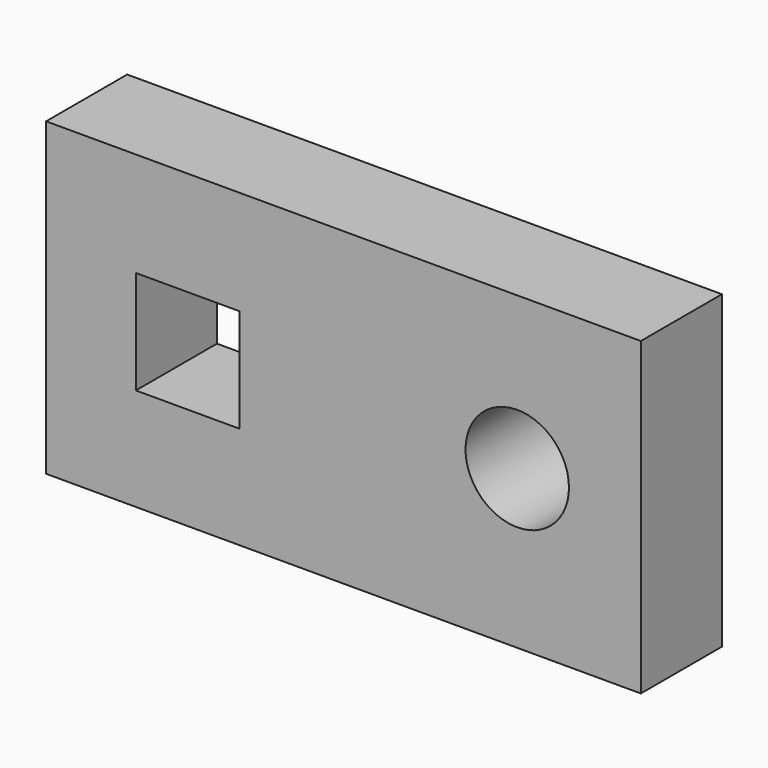
from build123d import *

# Parameters (mm, degrees)
F0_W     = 146.05
F0_H     = 76.2
F0_W_2   = 25.4
F0_H_2   = 25.4
F0_R     = 12.7
F1_DEPTH = 24.892


with BuildPart() as f1:
    # F0 (on Front) → F1 (new body)
    with BuildSketch(Plane.XZ):
        with Locations((-42.676377, -0.656896)):
            Rectangle(F0_W, F0_H)
        with Locations((-80.952049, -0.869416)):
            Rectangle(F0_W_2, F0_H_2, mode=Mode.SUBTRACT)
        Circle(F0_R, mode=Mode.SUBTRACT)
    extrude(amount=F1_DEPTH)


solid = f1.part
